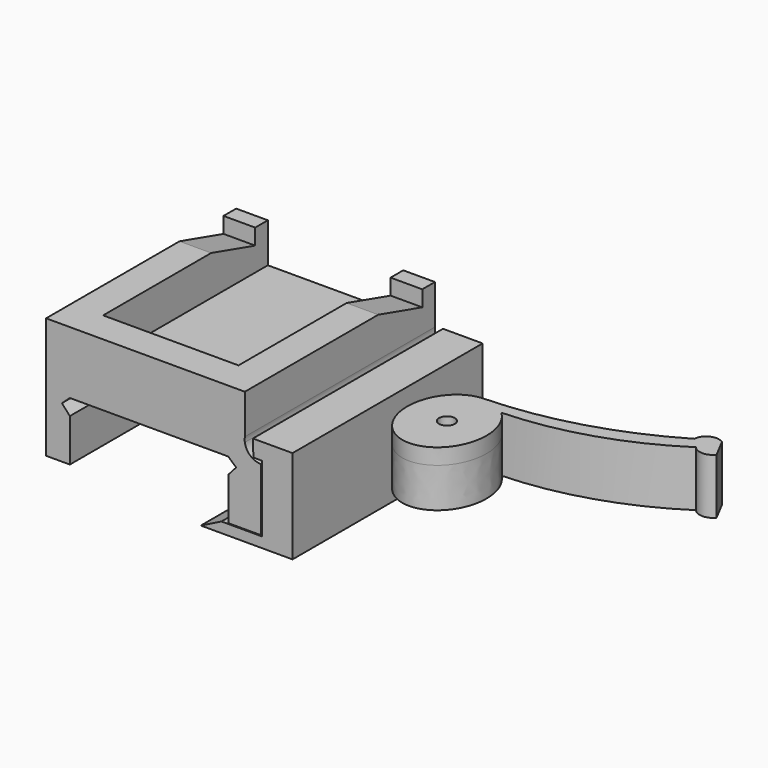
from build123d import *

# Parameters (mm, degrees)
F1_DEPTH      = 30
F2_R          = 1
F3_DEPTH      = 2
F3_DEPTH_BACK = 5
F5_DEPTH      = 5
F7_DEPTH      = 40
F7_DEPTH_BACK = 25


with BuildPart() as f1:
    # F0 (on Front) → F1 (new body)
    with BuildSketch(Plane.XZ):
        with BuildLine():
            Line((14.8527094555, 3.780583021), (-10.2424963421, 3.780583021))
            Line((-10.2424963421, 3.780583021), (-10.2424963421, -6.5018421061))
            Line((-10.2424963421, -6.5018421061), (-7.2424963421, -6.5018421061))
            Line((-7.2424963421, -6.5018421061), (-7.2424963421, -1.1115048688))
            Line((-7.2424963421, -1.1115048688), (-8.2424963421, 0))
            Line((-8.2424963421, 0), (-7.2424963421, 0.8996811692))
            Line((-7.2424963421, 0.8996811692), (12.7575036579, 0.8996811692))
            Line((12.7575036579, 0.8996811692), (13.7575036579, 0))
            Line((13.7575036579, 0), (12.7575036579, -1.1115048688))
            Line((12.7575036579, -1.1115048688), (12.7575036579, -6.5018421061))
            Line((12.7575036579, -6.5018421061), (16.8982353061, -6.5018421061))
            Line((16.8982353061, -6.5018421061), (16.8982353061, 1.3947577681))
            ThreePointArc((16.8982353061, 1.3947577681), (15.5510283365, 1.8932206333), (14.8527094555, 3.1485224248))
            ThreePointArc((14.8527094555, 3.1485224248), (14.8284403514, 3.4645527229), (14.8527094555, 3.780583021))
        make_face()
    extrude(amount=F1_DEPTH)

    # F4 (on face) → F5 (join)
    with BuildSketch(Plane.XY.offset(3.780583021)):
        Polygon((-6.2424963421, 0), (-10.2424963421, 0), (-10.2424963421, -26), (-10.2424963421, -30), (-6.2424963421, -30), (10.8527094555, -30), (14.8527094555, -30), (14.8527094555, -26), (14.8527094555, 0), (10.8527094555, 0), (10.8527094555, -26), (-6.2424963421, -26), align=None)
    extrude(amount=F5_DEPTH)

    # F6 (on face) → F7 (cut, two sides)
    with BuildSketch(Plane.YZ.offset(14.8527094555)) as f7_sk:
        Polygon((-2, 6.780583021), (-2, 8.780583021), (-2.450104937, 8.780583021), (-8.950104937, 8.780583021), align=None)
    extrude(amount=-F7_DEPTH, mode=Mode.SUBTRACT)
    extrude(f7_sk.sketch, amount=F7_DEPTH_BACK, mode=Mode.SUBTRACT)


with BuildPart() as f1b:
    # F0 (on Front) → F1, piece 2 (new body)
    with BuildSketch(Plane.XZ):
        Polygon((11.8966108242, -6.6018421061), (9.2910254428, -7.9018421061), (20.8707033843, -7.9018421061), (20.8707033843, 3.9137848653), (15.8707033843, 3.9137848653), (15.931197069, 1.8146563523), (17.031197069, 1.8146563523), (17.031197069, -6.6018421061), align=None)
    extrude(amount=F1_DEPTH)


with BuildPart() as f3:
    # F2 (on Top) → F3 (new body, two sides)
    with BuildSketch(Plane.XY) as f3_sk:
        with BuildLine():
            ThreePointArc((47.585811466, 0), (37.2734979985, -4.4723012943), (26.1761434376, -6.2594805434))
            add(Edge.make_bspline(
                [(26.1761434376, -6.2594805434), (19.3747874707, -6.2594805434), (21.4038275676, -14.0494531079), (23.4328676646, -21.8394256723), (29.0235815963, -17.1914799496), (34.614295528, -12.543534227), (29.2495139133, -7.5267934374)],
                knots=[0, 0, 0, 1.8737375275, 1.8737375275, 3.747475055, 3.747475055, 5.6212125825, 5.6212125825, 5.6212125825], degree=2, weights=[1, 0.5923137848, 1, 0.5923137848, 1, 0.5923137848, 1]))
            ThreePointArc((29.2495139133, -7.5267934374), (39.4645791019, -5.7497530376), (48.8316376838, -1.3041211464))
            ThreePointArc((48.8316376838, -1.3041211464), (50.1380822228, -1.8961829102), (51.4445267618, -1.3041211464))
            Line((51.4445267618, -1.3041211464), (50.1380822228, 1.1837984202))
            ThreePointArc((50.1380822228, 1.1837984202), (48.5162697127, 1.3371795039), (47.585811466, 0))
        make_face()
        with Locations((26.1761434376, -12.2594805434)):
            Circle(F2_R, mode=Mode.SUBTRACT)
    extrude(amount=F3_DEPTH)
    extrude(f3_sk.sketch, amount=-F3_DEPTH_BACK)


solid = Compound([f1.part, f1b.part, f3.part])
